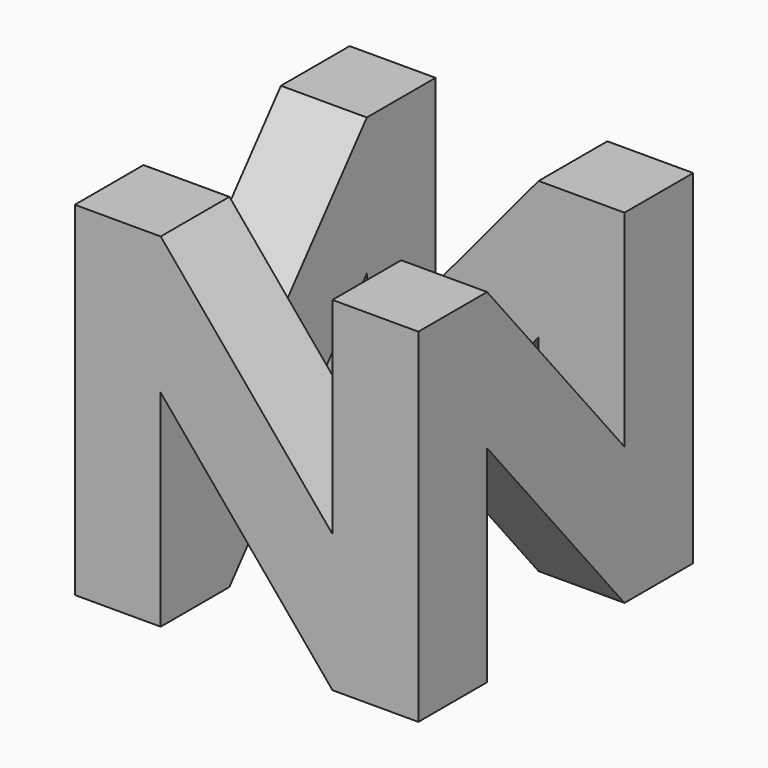
from build123d import *

# Parameters (mm, degrees)
F0_W     = 50.8
F0_H     = 50.8
F0_W_2   = 25.4
F0_H_2   = 25.4
F1_DEPTH = 50.8
F3_DEPTH = 12.7
F5_DEPTH = 12.7
F7_DEPTH = 12.7
F9_DEPTH = 12.7


with BuildPart() as f1:
    # F0 (on Top) → F1 (new body)
    with BuildSketch(Plane.XY):
        with Locations((25.4, 25.4)):
            Rectangle(F0_W, F0_H)
        with Locations((25.4, 25.4)):
            Rectangle(F0_W_2, F0_H_2, mode=Mode.SUBTRACT)
    extrude(amount=F1_DEPTH)

    # F2 (on face) → F3 (cut)
    with BuildSketch(Plane.YZ.offset(50.8)):
        Polygon((12.7, 30.48), (12.7, 0), (38.1, 0), align=None)
        Polygon((38.1, 20.32), (38.1, 50.8), (12.7, 50.8), align=None)
    extrude(amount=-F3_DEPTH, mode=Mode.SUBTRACT)

    # F4 (on face) → F5 (cut)
    with BuildSketch(Plane.XZ):
        Polygon((12.7, 30.48), (12.7, 0), (38.1, 0), align=None)
        Polygon((38.1, 20.32), (38.1, 50.8), (12.7, 50.8), align=None)
    extrude(amount=-F5_DEPTH, mode=Mode.SUBTRACT)

    # F6 (on face) → F7 (cut)
    with BuildSketch(Plane(origin=(0, 0, 0), x_dir=(0, -1, 0), z_dir=(-1, 0, 0))):
        Polygon((-38.1, 30.48), (-38.1, 0), (-12.7, 0), align=None)
        Polygon((-12.7, 20.32), (-12.7, 50.8), (-38.1, 50.8), align=None)
    extrude(amount=-F7_DEPTH, mode=Mode.SUBTRACT)

    # F8 (on face) → F9 (cut)
    with BuildSketch(Plane(origin=(0, 50.8, 0), x_dir=(-1, 0, 0), z_dir=(0, 1, 0))):
        Polygon((-38.1, 30.48), (-38.1, 0), (-12.7, 0), align=None)
        Polygon((-12.7, 20.32), (-12.7, 50.8), (-38.1, 50.8), align=None)
    extrude(amount=-F9_DEPTH, mode=Mode.SUBTRACT)


solid = f1.part
